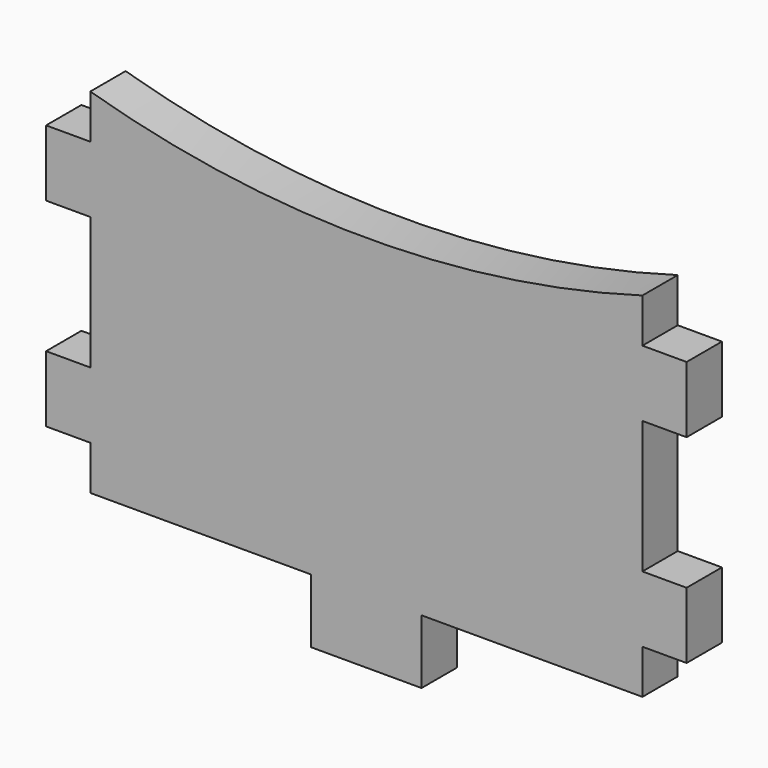
from build123d import *

# Parameters (mm, degrees)
F0_W     = 5
F0_H     = 2.9
F1_DEPTH = 2


with BuildPart() as f1:
    # F0 (on Front) → F1 (new body)
    with BuildSketch(Plane.XZ):
        with BuildLine():
            Line((0, 2), (0, 0))
            Line((0, 0), (10, 0))
            Line((10, 0), (15, 0))
            Line((15, 0), (25, 0))
            Line((25, 0), (25, 2))
            Line((25, 2), (27, 2))
            Line((27, 2), (27, 5))
            Line((27, 5), (25, 5))
            Line((25, 5), (25, 11))
            Line((25, 11), (27, 11))
            Line((27, 11), (27, 14))
            Line((27, 14), (25, 14))
            Line((25, 14), (25, 16))
            ThreePointArc((25, 16), (12.5, 14.229041), (0, 16))
            Line((0, 16), (0, 14))
            Line((0, 14), (-2, 14))
            Line((-2, 14), (-2, 11))
            Line((-2, 11), (0, 11))
            Line((0, 11), (0, 5))
            Line((0, 5), (-2, 5))
            Line((-2, 5), (-2, 2))
            Line((-2, 2), (0, 2))
        make_face()
        with Locations((12.5, -1.45)):
            Rectangle(F0_W, F0_H)
    extrude(amount=F1_DEPTH)


solid = f1.part
